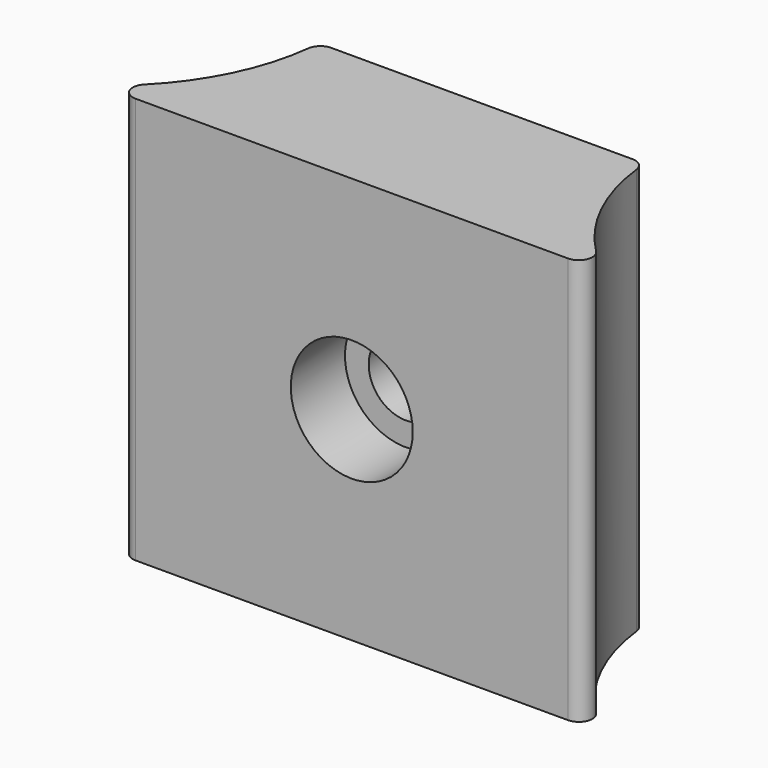
from build123d import *

# Parameters (mm, degrees)
F1_DEPTH  = 30
F2_R      = 4.5
F2_R_2    = 2.75
F3_DEPTH  = 5
F3_FACE_R = 2.75
F4_DEPTH  = 12
F5_R      = 1


with BuildPart() as f1:
    # F0 (on Top) → F1 (new body)
    with BuildSketch(Plane.XY):
        with BuildLine():
            ThreePointArc((-12.031281, -1), (-14.000959, -7.7477), (-18.672621, -13))
            Line((-18.672621, -13), (18.672621, -13))
            ThreePointArc((18.672621, -13), (14.000959, -7.7477), (12.031281, -1))
            Line((12.031281, -1), (-12.031281, -1))
        make_face()
    extrude(amount=F1_DEPTH)

    # F2 (on face) → F3 (cut)
    with BuildSketch(Plane.XZ.offset(13)):
        with Locations((0, 15)):
            Circle(F2_R)
        with Locations((0, 15)):
            Circle(F2_R_2, mode=Mode.SUBTRACT)
    extrude(amount=-F3_DEPTH, mode=Mode.SUBTRACT)

    # F3_face (on face) → F4 (cut, through all)
    with BuildSketch(Plane(origin=(0, -13, 15), x_dir=(1, 0, 0), z_dir=(0, -1, 0))):
        Circle(F3_FACE_R)
    extrude(amount=-F4_DEPTH, mode=Mode.SUBTRACT)

    # F5
    f5_edges = [f1.edges().sort_by_distance(p)[0] for p in [
        (-18.672621, -13, 15),
        (-12.031281, -1, 15),
        (18.672621, -13, 15),
        (12.031281, -1, 15),
    ]]
    fillet(f5_edges, radius=F5_R)


solid = f1.part
